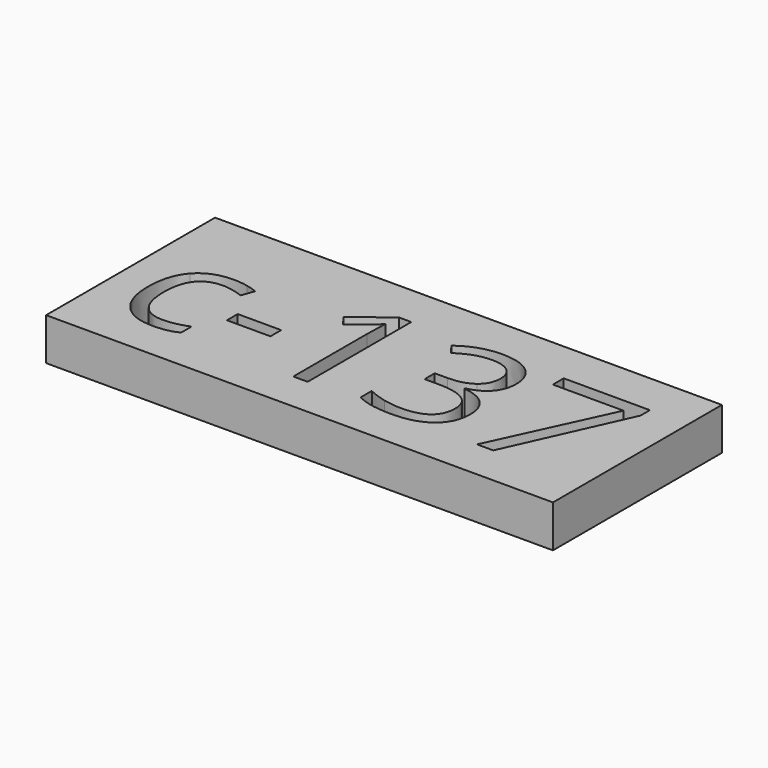
from build123d import *

# Parameters (mm, degrees)
F0_W     = 30.48
F0_H     = 12.7
F0_W_2   = 2.6148700127
F0_H_2   = 0.8096892152
F1_DEPTH = 2.54


with BuildPart() as f1:
    # F0 (on Top) → F1 (new body)
    with BuildSketch(Plane.XY):
        with Locations((-1.3798511758, 6.35)):
            Rectangle(F0_W, F0_H)
        with BuildLine():
            add(Edge.make_bspline(
                [(-10.5608947585, 2.57717929), (-11.1455756023, 2.2720543016), (-12.0353814345, 2.2720543016)],
                knots=[0, 0, 0, 1, 1, 1], degree=2))
            add(Edge.make_bspline(
                [(-12.0353814345, 2.2720543016), (-13.3036104368, 2.2720543016), (-13.9990908573, 3.0527651659)],
                knots=[0, 0, 0, 1, 1, 1], degree=2))
            add(Edge.make_bspline(
                [(-13.9990908573, 3.0527651659), (-14.6945712779, 3.8334760301), (-14.6945712779, 5.2619382666)],
                knots=[0, 0, 0, 1, 1, 1], degree=2))
            add(Edge.make_bspline(
                [(-14.6945712779, 5.2619382666), (-14.6945712779, 6.7261972893), (-13.9880108997, 7.5256588512)],
                knots=[0, 0, 0, 1, 1, 1], degree=2))
            add(Edge.make_bspline(
                [(-13.9880108997, 7.5256588512), (-13.2814505214, 8.3251204131), (-11.9774247328, 8.3251204131)],
                knots=[0, 0, 0, 1, 1, 1], degree=2))
            add(Edge.make_bspline(
                [(-11.9774247328, 8.3251204131), (-11.5563863409, 8.3251204131), (-11.135347949, 8.2339238384)],
                knots=[0, 0, 0, 1, 1, 1], degree=2))
            add(Edge.make_bspline(
                [(-11.135347949, 8.2339238384), (-10.7143095571, 8.1427272636), (-10.4756643148, 8.0199954247)],
                knots=[0, 0, 0, 1, 1, 1], degree=2))
            Line((-10.4756643148, 8.0199954247), (-10.7466971257, 7.2699675201))
            add(Edge.make_bspline(
                [(-10.7466971257, 7.2699675201), (-11.0398898521, 7.3875855324), (-11.3859254535, 7.4642929318)],
                knots=[0, 0, 0, 1, 1, 1], degree=2))
            add(Edge.make_bspline(
                [(-11.3859254535, 7.4642929318), (-11.7319610549, 7.5410003311), (-11.9978800393, 7.5410003311)],
                knots=[0, 0, 0, 1, 1, 1], degree=2))
            add(Edge.make_bspline(
                [(-11.9978800393, 7.5410003311), (-13.7774917037, 7.5410003311), (-13.7774917037, 5.2721659198)],
                knots=[0, 0, 0, 1, 1, 1], degree=2))
            add(Edge.make_bspline(
                [(-13.7774917037, 5.2721659198), (-13.7774917037, 4.1965577203), (-13.3436687453, 3.6212522253)],
                knots=[0, 0, 0, 1, 1, 1], degree=2))
            add(Edge.make_bspline(
                [(-13.3436687453, 3.6212522253), (-12.9098457869, 3.0459467304), (-12.0575413499, 3.0459467304)],
                knots=[0, 0, 0, 1, 1, 1], degree=2))
            add(Edge.make_bspline(
                [(-12.0575413499, 3.0459467304), (-11.3279687518, 3.0459467304), (-10.5608947585, 3.3595947632)],
                knots=[0, 0, 0, 1, 1, 1], degree=2))
            Line((-10.5608947585, 3.3595947632), (-10.5608947585, 2.57717929))
        make_face(mode=Mode.SUBTRACT)
        with Locations((-8.3568354844, 5.303701184)):
            Rectangle(F0_W_2, F0_H_2, mode=Mode.SUBTRACT)
        with BuildLine():
            Line((-2.7946967285, 10.1678026059), (-2.7946967285, 2.3794446606))
            Line((-2.7946967285, 2.3794446606), (-3.6572288188, 2.3794446606))
            Line((-3.6572288188, 2.3794446606), (-3.6572288188, 7.9296511544))
            add(Edge.make_bspline(
                [(-3.6572288188, 7.9296511544), (-3.6572288188, 8.6234269661), (-3.6146135969, 9.2404953785)],
                knots=[0, 0, 0, 1, 1, 1], degree=2))
            add(Edge.make_bspline(
                [(-3.6146135969, 9.2404953785), (-3.7254131737, 9.1279911928), (-3.864338797, 9.0061116583)],
                knots=[0, 0, 0, 1, 1, 1], degree=2))
            add(Edge.make_bspline(
                [(-3.864338797, 9.0061116583), (-4.0032644202, 8.8842321238), (-5.1317154948, 7.9671525496)],
                knots=[0, 0, 0, 1, 1, 1], degree=2))
            Line((-5.1317154948, 7.9671525496), (-5.6004829351, 8.5739933088))
            Line((-5.6004829351, 8.5739933088), (-3.5396108065, 10.1678026059))
            Line((-3.5396108065, 10.1678026059), (-2.7946967285, 10.1678026059))
        make_face(mode=Mode.SUBTRACT)
        with BuildLine():
            add(Edge.make_bspline(
                [(4.3646605423, 9.7595487806), (4.9936612168, 9.2404953785), (4.9936612168, 8.3353480664)],
                knots=[0, 0, 0, 1, 1, 1], degree=2))
            add(Edge.make_bspline(
                [(4.9936612168, 8.3353480664), (4.9936612168, 7.5887293796), (4.5751797382, 7.1148481126)],
                knots=[0, 0, 0, 1, 1, 1], degree=2))
            add(Edge.make_bspline(
                [(4.5751797382, 7.1148481126), (4.1566982597, 6.6409668456), (3.3896242664, 6.4807336115)],
                knots=[0, 0, 0, 1, 1, 1], degree=2))
            Line((3.3896242664, 6.4807336115), (3.3896242664, 6.4381183896))
            add(Edge.make_bspline(
                [(3.3896242664, 6.4381183896), (4.3271591471, 6.3222049862), (4.7797328031, 5.8423575882)],
                knots=[0, 0, 0, 1, 1, 1], degree=2))
            add(Edge.make_bspline(
                [(4.7797328031, 5.8423575882), (5.2323064592, 5.3625101901), (5.2323064592, 4.5852085436)],
                knots=[0, 0, 0, 1, 1, 1], degree=2))
            add(Edge.make_bspline(
                [(5.2323064592, 4.5852085436), (5.2323064592, 3.4720989489), (4.4601186392, 2.8720766252)],
                knots=[0, 0, 0, 1, 1, 1], degree=2))
            add(Edge.make_bspline(
                [(4.4601186392, 2.8720766252), (3.6879308193, 2.2720543016), (2.2662870184, 2.2720543016)],
                knots=[0, 0, 0, 1, 1, 1], degree=2))
            add(Edge.make_bspline(
                [(2.2662870184, 2.2720543016), (1.6475139971, 2.2720543016), (1.1335744216, 2.3658077896)],
                knots=[0, 0, 0, 1, 1, 1], degree=2))
            add(Edge.make_bspline(
                [(1.1335744216, 2.3658077896), (0.6196348461, 2.4595612777), (0.1355259259, 2.6930926934)],
                knots=[0, 0, 0, 1, 1, 1], degree=2))
            Line((0.1355259259, 2.6930926934), (0.1355259259, 3.5351694772))
            add(Edge.make_bspline(
                [(0.1355259259, 3.5351694772), (0.6417947615, 3.2845919727), (1.2145433431, 3.1541893939)],
                knots=[0, 0, 0, 1, 1, 1], degree=2))
            add(Edge.make_bspline(
                [(1.2145433431, 3.1541893939), (1.7872919248, 3.023786815), (2.298674587, 3.023786815)],
                knots=[0, 0, 0, 1, 1, 1], degree=2))
            add(Edge.make_bspline(
                [(2.298674587, 3.023786815), (4.3169314938, 3.023786815), (4.3169314938, 4.6056638501)],
                knots=[0, 0, 0, 1, 1, 1], degree=2))
            add(Edge.make_bspline(
                [(4.3169314938, 4.6056638501), (4.3169314938, 6.0238984332), (2.0907123044, 6.0238984332)],
                knots=[0, 0, 0, 1, 1, 1], degree=2))
            Line((2.0907123044, 6.0238984332), (1.3236383111, 6.0238984332))
            Line((1.3236383111, 6.0238984332), (1.3236383111, 6.784153991))
            Line((1.3236383111, 6.784153991), (2.1009399576, 6.784153991))
            add(Edge.make_bspline(
                [(2.1009399576, 6.784153991), (3.0112010963, 6.784153991), (3.5438913695, 7.1864416853)],
                knots=[0, 0, 0, 1, 1, 1], degree=2))
            add(Edge.make_bspline(
                [(3.5438913695, 7.1864416853), (4.0765816426, 7.5887293796), (4.0765816426, 8.3029604978)],
                knots=[0, 0, 0, 1, 1, 1], degree=2))
            add(Edge.make_bspline(
                [(4.0765816426, 8.3029604978), (4.0765816426, 8.8722998617), (3.685373906, 9.1978801566)],
                knots=[0, 0, 0, 1, 1, 1], degree=2))
            add(Edge.make_bspline(
                [(3.685373906, 9.1978801566), (3.2941661694, 9.5234604516), (2.6225502731, 9.5234604516)],
                knots=[0, 0, 0, 1, 1, 1], degree=2))
            add(Edge.make_bspline(
                [(2.6225502731, 9.5234604516), (2.1111676109, 9.5234604516), (1.6585939548, 9.3845348283)],
                knots=[0, 0, 0, 1, 1, 1], degree=2))
            add(Edge.make_bspline(
                [(1.6585939548, 9.3845348283), (1.2060202988, 9.2456092051), (0.6247486727, 8.8722998617)],
                knots=[0, 0, 0, 1, 1, 1], degree=2))
            Line((0.6247486727, 8.8722998617), (0.1781411477, 9.4689129676))
            add(Edge.make_bspline(
                [(0.1781411477, 9.4689129676), (0.6571362413, 9.8473361376), (1.2827276981, 10.0629691602)],
                knots=[0, 0, 0, 1, 1, 1], degree=2))
            add(Edge.make_bspline(
                [(1.2827276981, 10.0629691602), (1.9083191549, 10.2786021828), (2.6020949666, 10.2786021828)],
                knots=[0, 0, 0, 1, 1, 1], degree=2))
            add(Edge.make_bspline(
                [(2.6020949666, 10.2786021828), (3.7356598678, 10.2786021828), (4.3646605423, 9.7595487806)],
                knots=[0, 0, 0, 1, 1, 1], degree=2))
        make_face(mode=Mode.SUBTRACT)
        Polygon((8.3704913962, 2.3794446606), (7.3903412937, 2.3794446606), (10.6171658921, 9.3529995642), (6.3726897959, 9.3529995642), (6.3726897959, 10.1678026059), (11.5547007729, 10.1678026059), (11.5547007729, 9.4586853144), align=None, mode=Mode.SUBTRACT)
    extrude(amount=F1_DEPTH)


solid = f1.part
